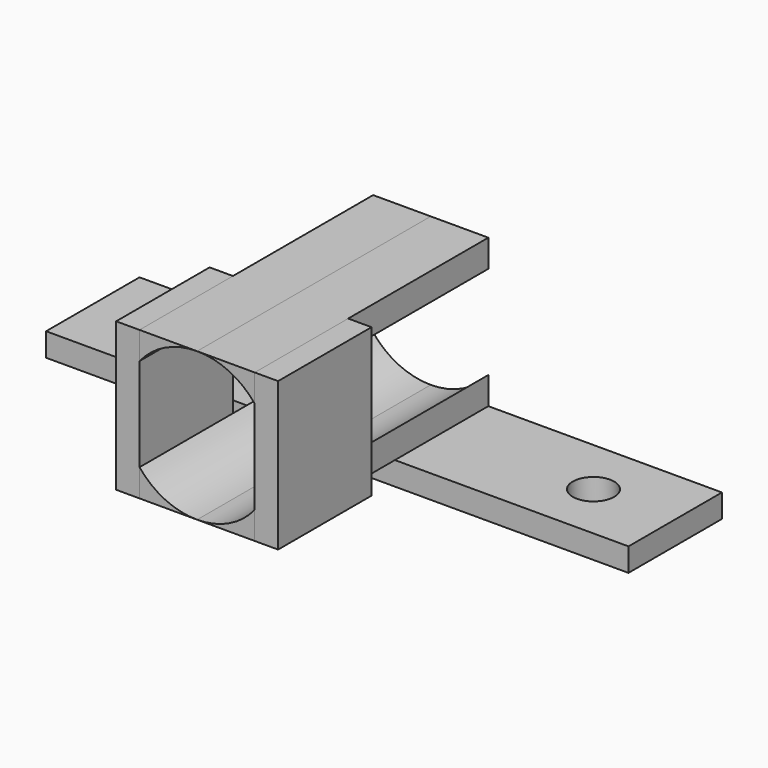
from build123d import *

# Parameters (mm, degrees)
F1_DEPTH  = 25
F2_W      = 10
F2_H      = 10.350019
F2_H_2    = 2.35
F3_DEPTH  = 2
F4_W      = 10
F4_H      = 2.35
F4_H_2    = 10.35
F5_DEPTH  = 2
F6_W      = 20
F6_H      = 10
F6_W_2    = 4
F7_DEPTH  = 2
F9_D      = 3.55
F10_W     = 20
F10_H     = 10
F10_W_2   = 4
F11_DEPTH = 2
F13_D     = 3.55


with BuildPart() as f1:
    # F0 (on Front) → F1 (new body)
    with BuildSketch(Plane.XZ):
        with BuildLine():
            Line((-9.863569, 10.35), (-9.863569, 8))
            ThreePointArc((-9.863569, 8), (-7.663314, 9.732473), (-4.931785, 10.35))
            Line((-4.931785, 10.35), (-9.863569, 10.35))
        make_face()
        with BuildLine():
            Line((0, 10.35), (-4.931785, 10.35))
            ThreePointArc((-4.931785, 10.35), (-2.200256, 9.732473), (0, 8))
            Line((0, 8), (0, 10.35))
        make_face()
        with BuildLine():
            ThreePointArc((-4.931785, -2.35), (-7.663314, -1.732473), (-9.863569, 0))
            Line((-9.863569, 0), (-9.863569, -2.35))
            Line((-9.863569, -2.35), (-4.931785, -2.35))
        make_face()
        with BuildLine():
            ThreePointArc((0, 0), (-2.200256, -1.732473), (-4.931785, -2.35))
            Line((-4.931785, -2.35), (0, -2.35))
            Line((0, -2.35), (0, 0))
        make_face()
    extrude(amount=F1_DEPTH)

    # F10 (on face) → F11 (join)
    with BuildSketch(Plane(origin=(0, 0, -2.35), x_dir=(1, 0, 0), z_dir=(0, 0, -1))):
        with Locations((10, 5)):
            Rectangle(F10_W, F10_H)
        with Locations((-2, 5)):
            Rectangle(F10_W_2, F10_H)
    extrude(amount=F11_DEPTH)

    # F13 (through all)
    with Locations(Plane.XY.offset(-2.35)):
        with Locations((13, -5)):
            Hole(F13_D / 2)


with BuildPart() as f3:
    # F2 (on face) → F3 (new body)
    with BuildSketch(Plane(origin=(-9.863569, 0, 0), x_dir=(0, -1, 0), z_dir=(-1, 0, 0))):
        with Locations((20, 2.824991)):
            Rectangle(F2_W, F2_H)
        with Locations((20, 9.175)):
            Rectangle(F2_W, F2_H_2)
    extrude(amount=F3_DEPTH)


with BuildPart() as f5:
    # F4 (on face) → F5 (new body)
    with BuildSketch(Plane.YZ):
        with Locations((-20, 9.175)):
            Rectangle(F4_W, F4_H)
        with Locations((-20, 2.825)):
            Rectangle(F4_W, F4_H_2)
    extrude(amount=F5_DEPTH)


with BuildPart() as f7:
    # F6 (on face) → F7 (new body)
    with BuildSketch(Plane(origin=(0, 0, -2.35), x_dir=(1, 0, 0), z_dir=(0, 0, -1))):
        with Locations((-19.863569, 5)):
            Rectangle(F6_W, F6_H)
        with Locations((-7.863569, 5)):
            Rectangle(F6_W_2, F6_H)
    extrude(amount=F7_DEPTH)

    # F9 (through all)
    with Locations(Plane.XY.offset(-2.35)):
        with Locations((-22.863569, -5)):
            Hole(F9_D / 2)


solid = Compound([f1.part, f3.part, f5.part, f7.part])
